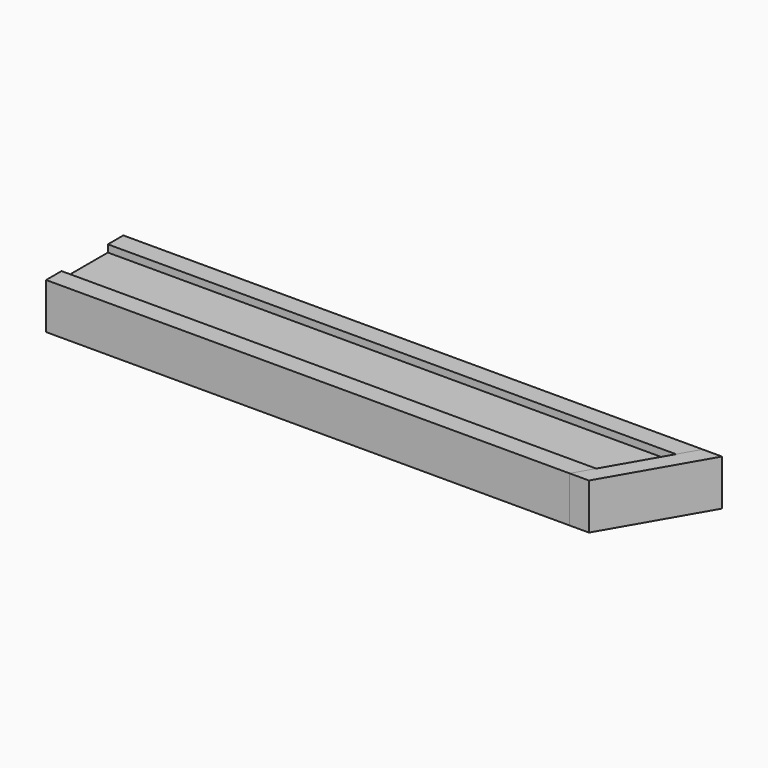
from build123d import *

# Parameters (mm, degrees)
F1_DEPTH = 406.4
F0_W     = 38.1
F0_H     = 25.4
F2_DEPTH = 406.4
F4_DEPTH = 30.1635
F6_DEPTH = 30.1625


with BuildPart() as f1:
    # F0 (on Right) → F1 (new body)
    with BuildSketch(Plane.YZ):
        Polygon((0, 30.1625), (0, 0), (12.7, 0), (12.7, 25.4), (12.7, 30.1625), align=None)
        Polygon((50.8, 25.4), (50.8, 0), (63.5, 0), (63.5, 30.1625), (50.8, 30.1625), align=None)
    extrude(amount=F1_DEPTH)


with BuildPart() as f2:
    # F0 (on Right) → F2 (new body, through all)
    with BuildSketch(Plane.YZ):
        with Locations((31.75, 12.7)):
            Rectangle(F0_W, F0_H)
    extrude(amount=F2_DEPTH)


with BuildPart() as f4_tool:
    # F3 (on face) → F4 (new body, through all)
    with BuildSketch(Plane.XY.offset(30.1625)):
        Polygon((406.4, 0), (406.4, 63.5), (381, 63.5), (344.338258, 0), align=None)
    extrude(amount=-F4_DEPTH)


with BuildPart() as f1_1:
    add(f1.part)

    # F4: cut by f4_tool
    add(f4_tool.part, mode=Mode.SUBTRACT)


with BuildPart() as f2_1:
    add(f2.part)

    # F4: cut by f4_tool
    add(f4_tool.part, mode=Mode.SUBTRACT)


with BuildPart() as f6:
    # F5 (on Top) → F6 (new body, through all)
    with BuildSketch(Plane.XY):
        Polygon((393.7, 63.5), (381, 63.5), (344.338258, 0), (357.038258, 0), align=None)
    extrude(amount=F6_DEPTH)


solid = Compound([f1_1.part, f2_1.part, f6.part])
